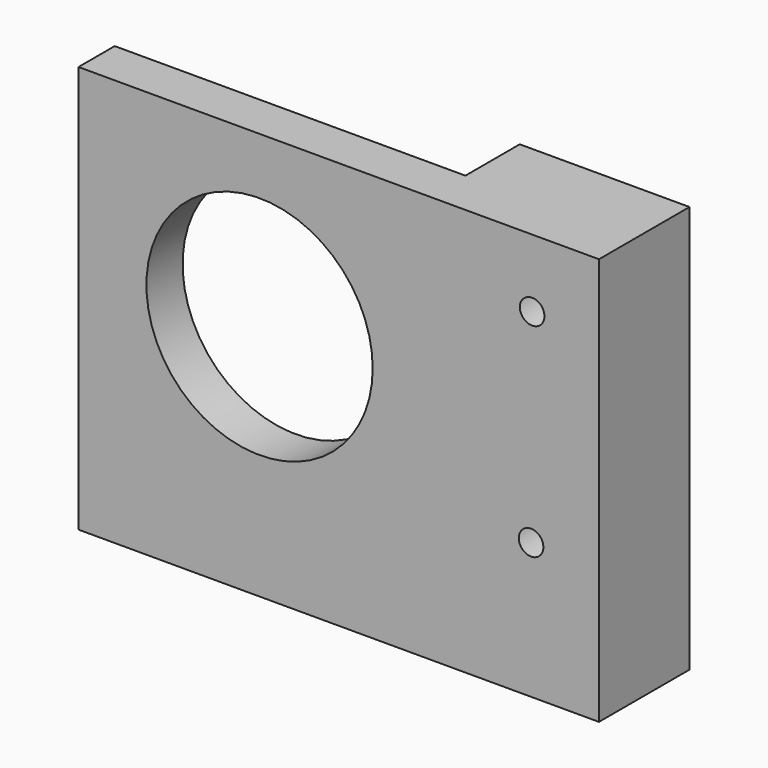
from build123d import *

# Parameters (mm, degrees)
F0_W           = 46
F0_H           = 36
F0_R           = 10
F1_DEPTH       = 10
F3_D           = 5.5
F3_DEPTH       = 9
F3_CBORE_D     = 9.75
F3_CBORE_DEPTH = 5
F3_TIP         = 1.6523667023
F4_R           = 10
F5_DEPTH       = 6


with BuildPart() as f1:
    # F0 (on Front) → F1 (new body)
    with BuildSketch(Plane.XZ):
        Rectangle(F0_W, F0_H)
        with Locations((-7, 3)):
            Circle(F0_R, mode=Mode.SUBTRACT)
    extrude(amount=F1_DEPTH)

    # F3
    with Locations(Plane(origin=(0, 0, 0), x_dir=(-1, 0, 0), z_dir=(0, 1, 0))):
        with Locations((-17.0919913413, 12), (-16.9995214964, -6)):
            CounterBoreHole(F3_D / 2, F3_CBORE_D / 2, F3_CBORE_DEPTH, depth=F3_DEPTH)
            with Locations((0, 0, -(F3_DEPTH + F3_TIP / 2))):  # 118° drill point
                Cone(0, F3_D / 2, F3_TIP, mode=Mode.SUBTRACT)

    # F4 (on face) → F5 (cut)
    with BuildSketch(Plane(origin=(0, 0, 0), x_dir=(-1, 0, 0), z_dir=(0, 1, 0))):
        with BuildLine():
            Line((-7.9965220779, 18), (-7.9965220779, 3.3229946864))
            Line((-7.9965220779, 3.3229946864), (-7.9965220779, 2.6770053136))
            ThreePointArc((-7.9965220779, 2.6770053136), (-3.0413947673, -8.1431768867), (8.2344393019, -11.9491190245))
            Line((8.2344393019, -11.9491190245), (23, -11.9491190245))
            Line((23, -11.9491190245), (23, 18))
            Line((23, 18), (-7.9965220779, 18))
        make_face()
        with Locations((7, 3)):
            Circle(F4_R, mode=Mode.SUBTRACT)
    extrude(amount=-F5_DEPTH, mode=Mode.SUBTRACT)


solid = f1.part
